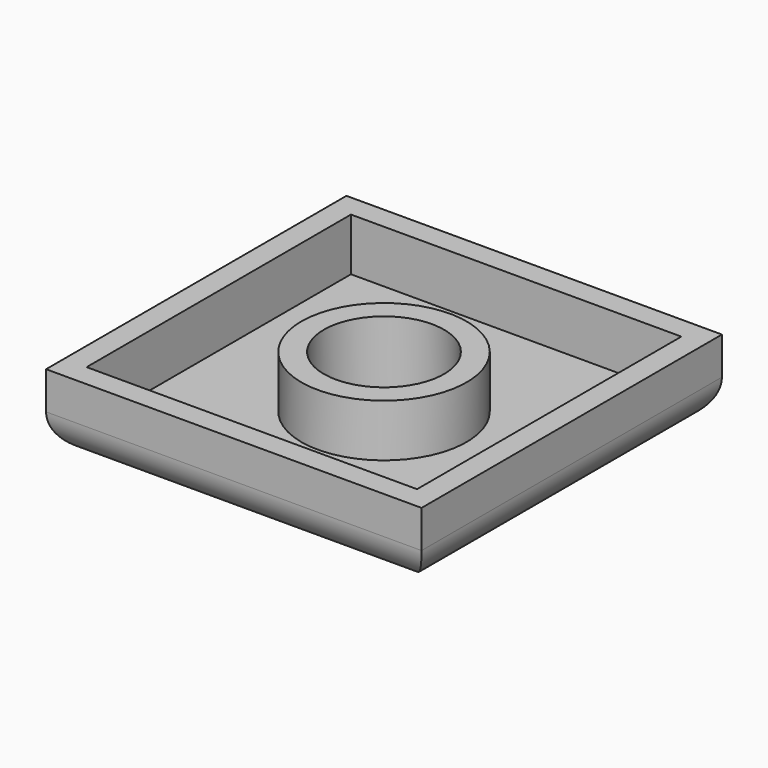
from build123d import *

# Parameters (mm, degrees)
F0_W     = 50
F0_H     = 50
F1_DEPTH = 10
F4_D     = 16
F5_T     = -3
F6_R     = 5


with BuildPart() as f1:
    # F0 (on Top) → F1 (new body)
    with BuildSketch(Plane.XY):
        Rectangle(F0_W, F0_H)
    extrude(amount=F1_DEPTH)

    # F4 (through all)
    with Locations(Plane.XY.offset(10)):
        with Locations((0, 0)):
            Hole(F4_D / 2)

    # F5
    f5_openings = [f1.faces().sort_by_distance(p)[0] for p in [
        (24.292893, 0, 10),
    ]]
    offset(amount=F5_T, openings=f5_openings)

    # F6
    f6_edges = [f1.edges().sort_by_distance(p)[0] for p in [
        (-25, 0, 0),
        (0, 25, 0),
        (25, 0, 0),
        (0, -25, 0),
    ]]
    fillet(f6_edges, radius=F6_R)


solid = f1.part
